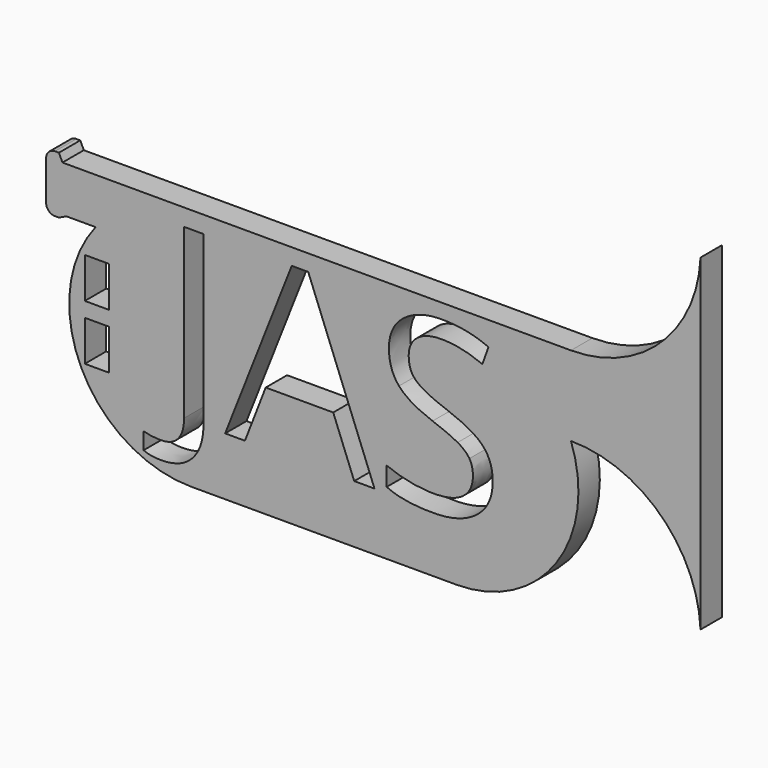
from build123d import *

# Parameters (mm, degrees)
F0_W     = 2.7374038473
F0_H     = 4.5464726281
F1_DEPTH = 3


with BuildPart() as f1:
    # F0 (on Front) → F1 (new body)
    with BuildSketch(Plane.XZ):
        with BuildLine():
            Line((-13.9879264009, 8.4983842463), (-10.7078288449, 8.4983842463))
            ThreePointArc((-10.7078288449, 8.4983842463), (-12.3096819162, -5.9457433928), (0, -13.6704108706))
            Line((0, -13.6704108706), (29.832560569, -13.6704108706))
            ThreePointArc((29.832560569, -13.6704108706), (41.0439649972, -7.8220549805), (42.6626390029, 4.7190275219))
            ThreePointArc((42.6626390029, 4.7190275219), (52.7277631814, 0.6811115523), (57.2114773095, -9.193492122))
            Line((57.2114773095, -9.193492122), (57.2114773095, 27.5829305145))
            ThreePointArc((57.2114773095, 27.5829305145), (52.7277631814, 17.7083268402), (42.6626390029, 13.6704108706))
            Line((42.6626390029, 13.6704108706), (29.832560569, 13.6704108706))
            Line((29.832560569, 13.6704108706), (0, 13.6704108706))
            Line((0, 13.6704108706), (-14.4307379611, 13.6704108706))
            Line((-14.4307379611, 13.6704108706), (-14.8297163701, 14.5122008398))
            Line((-14.8297163701, 14.5122008398), (-15.268201828, 14.5122008398))
            ThreePointArc((-15.268201828, 14.5122008398), (-15.9753086092, 14.219307621), (-16.268201828, 13.5122008398))
            Line((-16.268201828, 13.5122008398), (-16.268201828, 9.0994058373))
            ThreePointArc((-16.268201828, 9.0994058373), (-15.9753086092, 8.3922990562), (-15.268201828, 8.0994058373))
            Line((-15.268201828, 8.0994058373), (-14.8297163701, 8.0994058373))
            Line((-14.8297163701, 8.0994058373), (-13.9879264009, 8.4983842463))
        make_face()
        with Locations((-10.5523099191, -3.12910098)):
            Rectangle(F0_W, F0_H, mode=Mode.SUBTRACT)
        with BuildLine():
            add(Edge.make_bspline(
                [(0.173976751, -10.791644976), (-1.0682128711, -12.1435613479), (-3.3993887284, -12.1435613479)],
                knots=[0, 0, 0, 1, 1, 1], degree=2))
            add(Edge.make_bspline(
                [(-3.3993887284, -12.1435613479), (-4.6125939259, -12.1435613479), (-5.3123607464, -11.7957482538)],
                knots=[0, 0, 0, 1, 1, 1], degree=2))
            Line((-5.3123607464, -11.7957482538), (-5.3123607464, -9.9200419245))
            add(Edge.make_bspline(
                [(-5.3123607464, -9.9200419245), (-4.393140426, -10.176761113), (-3.3993887284, -10.176761113)],
                knots=[0, 0, 0, 1, 1, 1], degree=2))
            add(Edge.make_bspline(
                [(-3.3993887284, -10.176761113), (-2.1157927856, -10.176761113), (-1.4491510218, -9.4003925993)],
                knots=[0, 0, 0, 1, 1, 1], degree=2))
            add(Edge.make_bspline(
                [(-1.4491510218, -9.4003925993), (-0.782509258, -8.6240240855), (-0.782509258, -7.1623809636)],
                knots=[0, 0, 0, 1, 1, 1], degree=2))
            Line((-0.782509258, -7.1623809636), (-0.782509258, 11.7561669801))
            Line((-0.782509258, 11.7561669801), (1.416166373, 11.7561669801))
            Line((1.416166373, 11.7561669801), (1.416166373, -6.9801931523))
            add(Edge.make_bspline(
                [(1.416166373, -6.9801931523), (1.416166373, -9.439728604), (0.173976751, -10.791644976)],
                knots=[0, 0, 0, 1, 1, 1], degree=2))
        make_face(mode=Mode.SUBTRACT)
        with Locations((-10.5523099191, 3.0826488801)):
            Rectangle(F0_W, F0_H, mode=Mode.SUBTRACT)
        Polygon((20.6038554014, -7.1623809636), (18.326507761, -7.1623809636), (15.9704881112, -1.1460425608), (8.3889907847, -1.1460425608), (6.0619555594, -7.1623809636), (3.8342955039, -7.1623809636), (11.3122770286, 11.8348389895), (13.1631395654, 11.8348389895), align=None, mode=Mode.SUBTRACT)
        with BuildLine():
            add(Edge.make_bspline(
                [(32.7607511691, 1.0277892777), (33.8787218289, -0.1895565519), (33.8787218289, -2.1273723622)],
                knots=[0, 0, 0, 1, 1, 1], degree=2))
            add(Edge.make_bspline(
                [(33.8787218289, -2.1273723622), (33.8787218289, -4.6241735025), (32.0671952968, -6.0237071434)],
                knots=[0, 0, 0, 1, 1, 1], degree=2))
            add(Edge.make_bspline(
                [(32.0671952968, -6.0237071434), (30.2556687647, -7.4232407842), (27.1501947096, -7.4232407842)],
                knots=[0, 0, 0, 1, 1, 1], degree=2))
            add(Edge.make_bspline(
                [(27.1501947096, -7.4232407842), (23.7880014659, -7.4232407842), (21.9744046177, -6.5537080488)],
                knots=[0, 0, 0, 1, 1, 1], degree=2))
            Line((21.9744046177, -6.5537080488), (21.9744046177, -4.4337044272))
            add(Edge.make_bspline(
                [(21.9744046177, -4.4337044272), (23.1420628625, -4.9222990118), (24.5126120788, -5.2080026249)],
                knots=[0, 0, 0, 1, 1, 1], degree=2))
            add(Edge.make_bspline(
                [(24.5126120788, -5.2080026249), (25.8831612951, -5.493706238), (27.228866719, -5.493706238)],
                knots=[0, 0, 0, 1, 1, 1], degree=2))
            add(Edge.make_bspline(
                [(27.228866719, -5.493706238), (29.42754235, -5.493706238), (30.5413723777, -4.6593688752)],
                knots=[0, 0, 0, 1, 1, 1], degree=2))
            add(Edge.make_bspline(
                [(30.5413723777, -4.6593688752), (31.6552024055, -3.8250315124), (31.6552024055, -2.3344039659)],
                knots=[0, 0, 0, 1, 1, 1], degree=2))
            add(Edge.make_bspline(
                [(31.6552024055, -2.3344039659), (31.6552024055, -1.3530741645), (31.2597720425, -0.7257684054)],
                knots=[0, 0, 0, 1, 1, 1], degree=2))
            add(Edge.make_bspline(
                [(31.2597720425, -0.7257684054), (30.8643416795, -0.0984626462), (29.938910411, 0.4336085752)],
                knots=[0, 0, 0, 1, 1, 1], degree=2))
            add(Edge.make_bspline(
                [(29.938910411, 0.4336085752), (29.0134791426, 0.9656797966), (27.1253509171, 1.6364621925)],
                knots=[0, 0, 0, 1, 1, 1], degree=2))
            add(Edge.make_bspline(
                [(27.1253509171, 1.6364621925), (24.4877682863, 2.5805263053), (23.3553054142, 3.8744738282)],
                knots=[0, 0, 0, 1, 1, 1], degree=2))
            add(Edge.make_bspline(
                [(23.3553054142, 3.8744738282), (22.2228425422, 5.1684213512), (22.2228425422, 7.2511592841)],
                knots=[0, 0, 0, 1, 1, 1], degree=2))
            add(Edge.make_bspline(
                [(22.2228425422, 7.2511592841), (22.2228425422, 9.4374130189), (23.8646031593, 10.7313605419)],
                knots=[0, 0, 0, 1, 1, 1], degree=2))
            add(Edge.make_bspline(
                [(23.8646031593, 10.7313605419), (25.5063637764, 12.0253080648), (28.2143371524, 12.0253080648)],
                knots=[0, 0, 0, 1, 1, 1], degree=2))
            add(Edge.make_bspline(
                [(28.2143371524, 12.0253080648), (31.0341075945, 12.0253080648), (33.4025491405, 10.9901500465)],
                knots=[0, 0, 0, 1, 1, 1], degree=2))
            Line((33.4025491405, 10.9901500465), (32.7152042163, 9.0771780285))
            add(Edge.make_bspline(
                [(32.7152042163, 9.0771780285), (30.3716064627, 10.05850783), (28.1605089355, 10.05850783)],
                knots=[0, 0, 0, 1, 1, 1], degree=2))
            add(Edge.make_bspline(
                [(28.1605089355, 10.05850783), (26.4131622005, 10.05850783), (25.429762083, 9.3090534247)],
                knots=[0, 0, 0, 1, 1, 1], degree=2))
            add(Edge.make_bspline(
                [(25.429762083, 9.3090534247), (24.4463619656, 8.5595990194), (24.4463619656, 7.2263154917)],
                knots=[0, 0, 0, 1, 1, 1], degree=2))
            add(Edge.make_bspline(
                [(24.4463619656, 7.2263154917), (24.4463619656, 6.2449856903), (24.808667272, 5.6156096151)],
                knots=[0, 0, 0, 1, 1, 1], degree=2))
            add(Edge.make_bspline(
                [(24.808667272, 5.6156096151), (25.1709725785, 4.98623354), (26.0322240497, 4.4624435827)],
                knots=[0, 0, 0, 1, 1, 1], degree=2))
            add(Edge.make_bspline(
                [(26.0322240497, 4.4624435827), (26.893475521, 3.9386536254), (28.6656660485, 3.3051369181)],
                knots=[0, 0, 0, 1, 1, 1], degree=2))
            add(Edge.make_bspline(
                [(28.6656660485, 3.3051369181), (31.6427805093, 2.2451351073), (32.7607511691, 1.0277892777)],
                knots=[0, 0, 0, 1, 1, 1], degree=2))
        make_face(mode=Mode.SUBTRACT)
    extrude(amount=F1_DEPTH)


solid = f1.part
